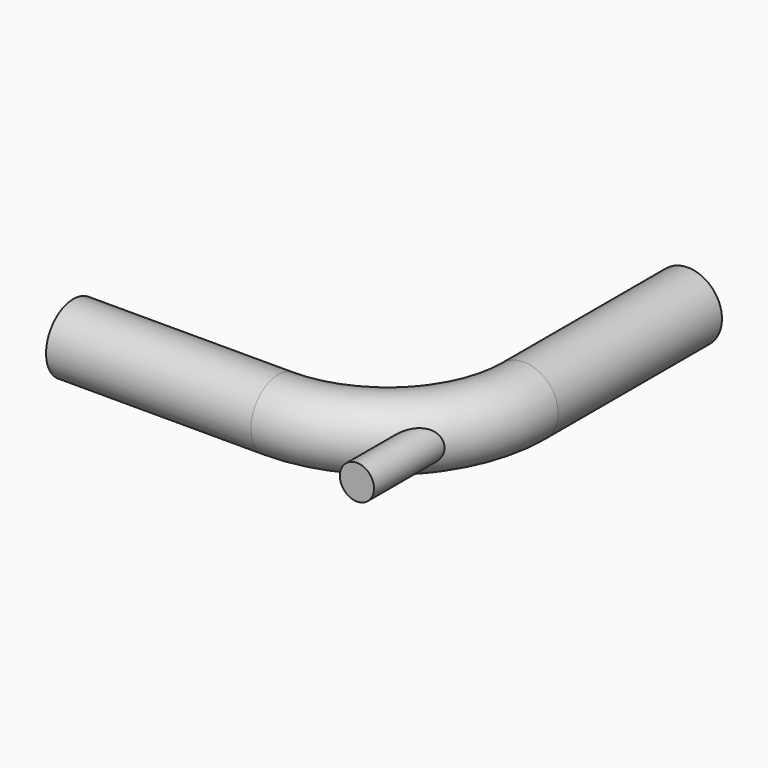
from build123d import *

# Parameters (mm, degrees)
F1_R     = 12.7
F5_R     = 6.35
F6_DEPTH = 32.810532029


with BuildPart() as f2:
    # F2: sweep along a path in F0
    with BuildLine(Plane.XY) as f2_path:
        Line((0, 0), (76.2, 0))
        ThreePointArc((76.2, 0), (112.1210244843, 14.8789755157), (127, 50.8))
        Line((127, 50.8), (127, 127))
    # F1 (on Right) → F2 (sweep)
    with BuildSketch(Plane.YZ):
        Circle(F1_R)
    sweep(path=f2_path.line)

    # F5 (on plane+point) → F6 (join, through all)
    with BuildSketch(Plane.XZ.offset(19.5012806053)):
        with Locations((121.1012806053, 0)):
            Circle(F5_R)
    extrude(amount=-F6_DEPTH)


solid = f2.part
